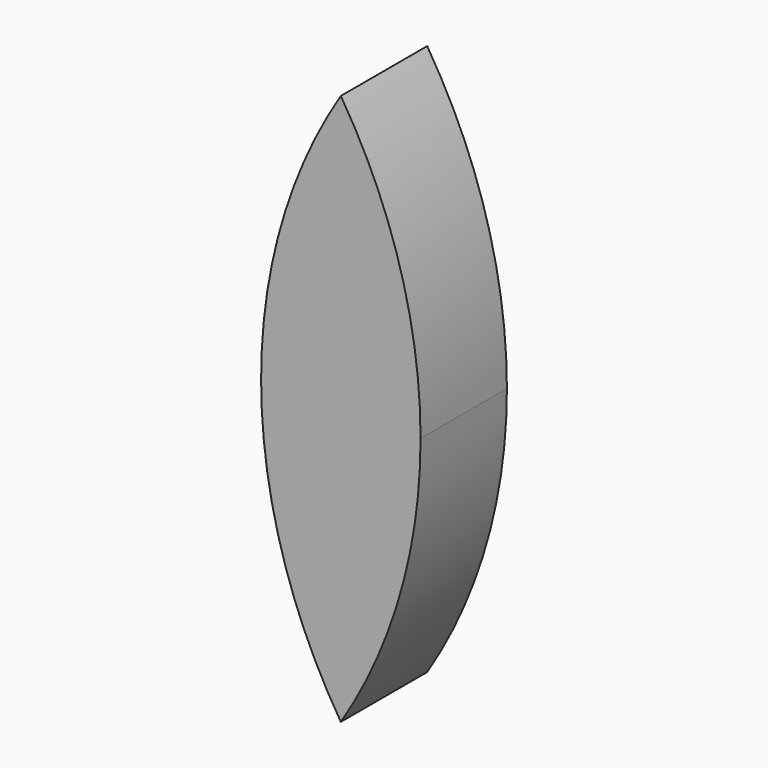
from build123d import *

# Parameters (mm, degrees)
F1_DEPTH = 25.4


with BuildPart() as f1:
    # F0 (on Front) → F1 (new body)
    with BuildSketch(Plane.XZ):
        with BuildLine():
            Line((0, -64.841196), (0, 64.841196))
            ThreePointArc((0, 64.841196), (-13.976672, 33.750426), (-18.761244, 0))
            ThreePointArc((-18.761244, 0), (-13.976672, -33.750426), (0, -64.841196))
        make_face()
        with BuildLine():
            ThreePointArc((18.761244, 0), (13.976672, 33.750426), (0, 64.841196))
            Line((0, 64.841196), (0, -64.841196))
            ThreePointArc((0, -64.841196), (13.976672, -33.750426), (18.761244, 0))
        make_face()
    extrude(amount=F1_DEPTH)


solid = f1.part
